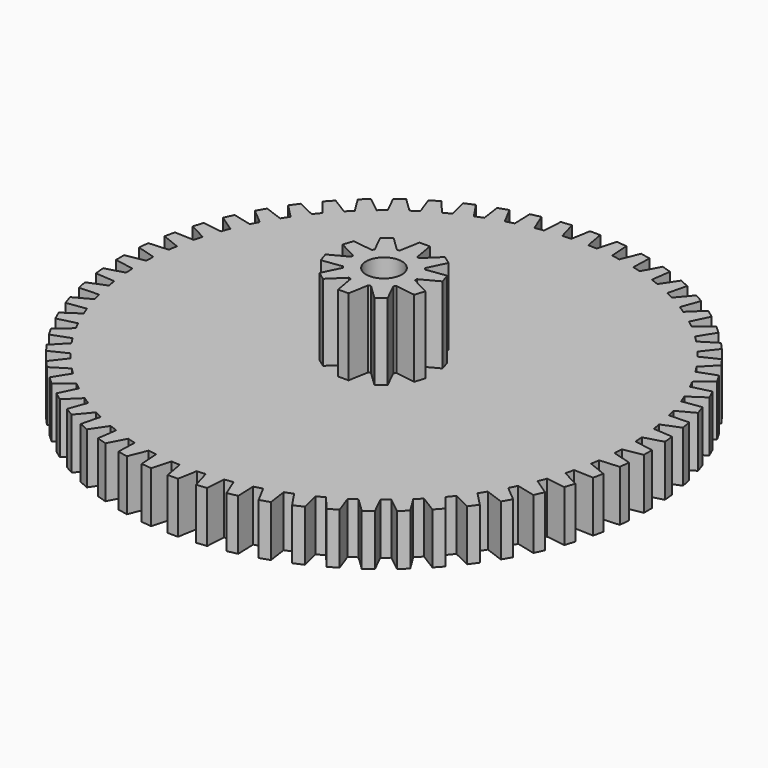
from build123d import *

# Parameters (mm, degrees)
F1_DEPTH = 3
F3_DEPTH = 4.5
F4_R     = 1.05
F5_DEPTH = 7.501


with BuildPart() as f1:
    # F0 (on Top) → F1 (new body)
    with BuildSketch(Plane.XY):
        with BuildLine():
            ThreePointArc((14.339974, -1.002886), (14.3553, -0.752329), (14.366248, -0.501543))
            ThreePointArc((14.366248, -0.501543), (14.372812, -0.25081), (14.375, 0))
            ThreePointArc((14.375, 0), (14.372812, 0.25081), (14.366248, 0.501543))
            ThreePointArc((14.366248, 0.501543), (14.3553, 0.752329), (14.339974, 1.002886))
            ThreePointArc((14.339974, 1.002886), (14.296252, 1.502597), (14.235123, 2.000478))
            ThreePointArc((14.235123, 2.000478), (14.19802, 2.248745), (14.156588, 2.496328))
            ThreePointArc((14.156588, 2.496328), (14.060872, 2.988731), (13.948034, 3.477494))
            ThreePointArc((13.948034, 3.477494), (13.885184, 3.720524), (13.818099, 3.962419))
            ThreePointArc((13.818099, 3.962419), (13.671437, 4.442119), (13.508128, 4.916411))
            ThreePointArc((13.508128, 4.916411), (13.420219, 5.151539), (13.328217, 5.385097))
            ThreePointArc((13.328217, 5.385097), (13.132216, 5.846839), (12.920225, 6.301462))
            ThreePointArc((12.920225, 6.301462), (12.808219, 6.526113), (12.692307, 6.748775))
            ThreePointArc((12.692307, 6.748775), (12.449115, 7.1875), (12.190764, 7.617473))
            ThreePointArc((12.190764, 7.617473), (12.055889, 7.829186), (11.917338, 8.038512))
            ThreePointArc((11.917338, 8.038512), (11.629619, 8.449413), (11.327739, 8.850026))
            ThreePointArc((11.327739, 8.850026), (11.171473, 9.046481), (11.011801, 9.240177))
            ThreePointArc((11.011801, 9.240177), (10.682707, 9.618752), (10.340605, 9.985615))
            ThreePointArc((10.340605, 9.985615), (10.16466, 10.16466), (9.985615, 10.340605))
            ThreePointArc((9.985615, 10.340605), (9.618752, 10.682707), (9.240177, 11.011801))
            ThreePointArc((9.240177, 11.011801), (9.046481, 11.171473), (8.850026, 11.327739))
            ThreePointArc((8.850026, 11.327739), (8.449413, 11.629619), (8.038512, 11.917338))
            ThreePointArc((8.038512, 11.917338), (7.829186, 12.055889), (7.617473, 12.190764))
            ThreePointArc((7.617473, 12.190764), (7.1875, 12.449115), (6.748775, 12.692307))
            ThreePointArc((6.748775, 12.692307), (6.526113, 12.808219), (6.301462, 12.920225))
            ThreePointArc((6.301462, 12.920225), (5.846839, 13.132216), (5.385097, 13.328217))
            ThreePointArc((5.385097, 13.328217), (5.151539, 13.420219), (4.916411, 13.508128))
            ThreePointArc((4.916411, 13.508128), (4.442119, 13.671437), (3.962419, 13.818099))
            ThreePointArc((3.962419, 13.818099), (3.720524, 13.885184), (3.477494, 13.948034))
            ThreePointArc((3.477494, 13.948034), (2.988731, 14.060872), (2.496328, 14.156588))
            ThreePointArc((2.496328, 14.156588), (2.248745, 14.19802), (2.000478, 14.235123))
            ThreePointArc((2.000478, 14.235123), (1.502597, 14.296252), (1.002886, 14.339974))
            ThreePointArc((1.002886, 14.339974), (0.752329, 14.3553), (0.501543, 14.366248))
            ThreePointArc((0.501543, 14.366248), (0, 14.375), (-0.501543, 14.366248))
            ThreePointArc((-0.501543, 14.366248), (-0.752329, 14.3553), (-1.002886, 14.339974))
            ThreePointArc((-1.002886, 14.339974), (-1.502597, 14.296252), (-2.000478, 14.235123))
            ThreePointArc((-2.000478, 14.235123), (-2.248745, 14.19802), (-2.496328, 14.156588))
            ThreePointArc((-2.496328, 14.156588), (-2.988731, 14.060872), (-3.477494, 13.948034))
            ThreePointArc((-3.477494, 13.948034), (-3.720524, 13.885184), (-3.962419, 13.818099))
            ThreePointArc((-3.962419, 13.818099), (-4.442119, 13.671437), (-4.916411, 13.508128))
            ThreePointArc((-4.916411, 13.508128), (-5.151539, 13.420219), (-5.385097, 13.328217))
            ThreePointArc((-5.385097, 13.328217), (-5.846839, 13.132216), (-6.301462, 12.920225))
            ThreePointArc((-6.301462, 12.920225), (-6.526113, 12.808219), (-6.748775, 12.692307))
            ThreePointArc((-6.748775, 12.692307), (-7.1875, 12.449115), (-7.617473, 12.190764))
            ThreePointArc((-7.617473, 12.190764), (-7.829186, 12.055889), (-8.038512, 11.917338))
            ThreePointArc((-8.038512, 11.917338), (-8.449413, 11.629619), (-8.850026, 11.327739))
            ThreePointArc((-8.850026, 11.327739), (-9.046481, 11.171473), (-9.240177, 11.011801))
            ThreePointArc((-9.240177, 11.011801), (-9.618752, 10.682707), (-9.985615, 10.340605))
            ThreePointArc((-9.985615, 10.340605), (-10.16466, 10.16466), (-10.340605, 9.985615))
            ThreePointArc((-10.340605, 9.985615), (-10.682707, 9.618752), (-11.011801, 9.240177))
            ThreePointArc((-11.011801, 9.240177), (-11.171473, 9.046481), (-11.327739, 8.850026))
            ThreePointArc((-11.327739, 8.850026), (-11.629619, 8.449413), (-11.917338, 8.038512))
            ThreePointArc((-11.917338, 8.038512), (-12.055889, 7.829186), (-12.190764, 7.617473))
            ThreePointArc((-12.190764, 7.617473), (-12.449115, 7.1875), (-12.692307, 6.748775))
            ThreePointArc((-12.692307, 6.748775), (-12.808219, 6.526113), (-12.920225, 6.301462))
            ThreePointArc((-12.920225, 6.301462), (-13.132216, 5.846839), (-13.328217, 5.385097))
            ThreePointArc((-13.328217, 5.385097), (-13.420219, 5.151539), (-13.508128, 4.916411))
            ThreePointArc((-13.508128, 4.916411), (-13.671437, 4.442119), (-13.818099, 3.962419))
            ThreePointArc((-13.818099, 3.962419), (-13.885184, 3.720524), (-13.948034, 3.477494))
            ThreePointArc((-13.948034, 3.477494), (-14.060872, 2.988731), (-14.156588, 2.496328))
            ThreePointArc((-14.156588, 2.496328), (-14.19802, 2.248745), (-14.235123, 2.000478))
            ThreePointArc((-14.235123, 2.000478), (-14.296252, 1.502597), (-14.339974, 1.002886))
            ThreePointArc((-14.339974, 1.002886), (-14.3553, 0.752329), (-14.366248, 0.501543))
            ThreePointArc((-14.366248, 0.501543), (-14.375, 0), (-14.366248, -0.501543))
            ThreePointArc((-14.366248, -0.501543), (-14.3553, -0.752329), (-14.339974, -1.002886))
            ThreePointArc((-14.339974, -1.002886), (-14.296252, -1.502597), (-14.235123, -2.000478))
            ThreePointArc((-14.235123, -2.000478), (-14.19802, -2.248745), (-14.156588, -2.496328))
            ThreePointArc((-14.156588, -2.496328), (-14.060872, -2.988731), (-13.948034, -3.477494))
            ThreePointArc((-13.948034, -3.477494), (-13.885184, -3.720524), (-13.818099, -3.962419))
            ThreePointArc((-13.818099, -3.962419), (-13.671437, -4.442119), (-13.508128, -4.916411))
            ThreePointArc((-13.508128, -4.916411), (-13.420219, -5.151539), (-13.328217, -5.385097))
            ThreePointArc((-13.328217, -5.385097), (-13.132216, -5.846839), (-12.920225, -6.301462))
            ThreePointArc((-12.920225, -6.301462), (-12.808219, -6.526113), (-12.692307, -6.748775))
            ThreePointArc((-12.692307, -6.748775), (-12.449115, -7.1875), (-12.190764, -7.617473))
            ThreePointArc((-12.190764, -7.617473), (-12.055889, -7.829186), (-11.917338, -8.038512))
            ThreePointArc((-11.917338, -8.038512), (-11.629619, -8.449413), (-11.327739, -8.850026))
            ThreePointArc((-11.327739, -8.850026), (-11.171473, -9.046481), (-11.011801, -9.240177))
            ThreePointArc((-11.011801, -9.240177), (-10.682707, -9.618752), (-10.340605, -9.985615))
            ThreePointArc((-10.340605, -9.985615), (-10.16466, -10.16466), (-9.985615, -10.340605))
            ThreePointArc((-9.985615, -10.340605), (-9.618752, -10.682707), (-9.240177, -11.011801))
            ThreePointArc((-9.240177, -11.011801), (-9.046481, -11.171473), (-8.850026, -11.327739))
            ThreePointArc((-8.850026, -11.327739), (-8.449413, -11.629619), (-8.038512, -11.917338))
            ThreePointArc((-8.038512, -11.917338), (-7.829186, -12.055889), (-7.617473, -12.190764))
            ThreePointArc((-7.617473, -12.190764), (-7.1875, -12.449115), (-6.748775, -12.692307))
            ThreePointArc((-6.748775, -12.692307), (-6.526113, -12.808219), (-6.301462, -12.920225))
            ThreePointArc((-6.301462, -12.920225), (-5.846839, -13.132216), (-5.385097, -13.328217))
            ThreePointArc((-5.385097, -13.328217), (-5.151539, -13.420219), (-4.916411, -13.508128))
            ThreePointArc((-4.916411, -13.508128), (-4.442119, -13.671437), (-3.962419, -13.818099))
            ThreePointArc((-3.962419, -13.818099), (-3.720524, -13.885184), (-3.477494, -13.948034))
            ThreePointArc((-3.477494, -13.948034), (-2.988731, -14.060872), (-2.496328, -14.156588))
            ThreePointArc((-2.496328, -14.156588), (-2.248745, -14.19802), (-2.000478, -14.235123))
            ThreePointArc((-2.000478, -14.235123), (-1.502597, -14.296252), (-1.002886, -14.339974))
            ThreePointArc((-1.002886, -14.339974), (-0.752329, -14.3553), (-0.501543, -14.366248))
            ThreePointArc((-0.501543, -14.366248), (0, -14.375), (0.501543, -14.366248))
            ThreePointArc((0.501543, -14.366248), (0.752329, -14.3553), (1.002886, -14.339974))
            ThreePointArc((1.002886, -14.339974), (1.502597, -14.296252), (2.000478, -14.235123))
            ThreePointArc((2.000478, -14.235123), (2.248745, -14.19802), (2.496328, -14.156588))
            ThreePointArc((2.496328, -14.156588), (2.988731, -14.060872), (3.477494, -13.948034))
            ThreePointArc((3.477494, -13.948034), (3.720524, -13.885184), (3.962419, -13.818099))
            ThreePointArc((3.962419, -13.818099), (4.442119, -13.671437), (4.916411, -13.508128))
            ThreePointArc((4.916411, -13.508128), (5.151539, -13.420219), (5.385097, -13.328217))
            ThreePointArc((5.385097, -13.328217), (5.846839, -13.132216), (6.301462, -12.920225))
            ThreePointArc((6.301462, -12.920225), (6.526113, -12.808219), (6.748775, -12.692307))
            ThreePointArc((6.748775, -12.692307), (7.1875, -12.449115), (7.617473, -12.190764))
            ThreePointArc((7.617473, -12.190764), (7.829186, -12.055889), (8.038512, -11.917338))
            ThreePointArc((8.038512, -11.917338), (8.449413, -11.629619), (8.850026, -11.327739))
            ThreePointArc((8.850026, -11.327739), (9.046481, -11.171473), (9.240177, -11.011801))
            ThreePointArc((9.240177, -11.011801), (9.618752, -10.682707), (9.985615, -10.340605))
            ThreePointArc((9.985615, -10.340605), (10.16466, -10.16466), (10.340605, -9.985615))
            ThreePointArc((10.340605, -9.985615), (10.682707, -9.618752), (11.011801, -9.240177))
            ThreePointArc((11.011801, -9.240177), (11.171473, -9.046481), (11.327739, -8.850026))
            ThreePointArc((11.327739, -8.850026), (11.629619, -8.449413), (11.917338, -8.038512))
            ThreePointArc((11.917338, -8.038512), (12.055889, -7.829186), (12.190764, -7.617473))
            ThreePointArc((12.190764, -7.617473), (12.449115, -7.1875), (12.692307, -6.748775))
            ThreePointArc((12.692307, -6.748775), (12.808219, -6.526113), (12.920225, -6.301462))
            ThreePointArc((12.920225, -6.301462), (13.132216, -5.846839), (13.328217, -5.385097))
            ThreePointArc((13.328217, -5.385097), (13.420219, -5.151539), (13.508128, -4.916411))
            ThreePointArc((13.508128, -4.916411), (13.671437, -4.442119), (13.818099, -3.962419))
            ThreePointArc((13.818099, -3.962419), (13.885184, -3.720524), (13.948034, -3.477494))
            ThreePointArc((13.948034, -3.477494), (14.060872, -2.988731), (14.156588, -2.496328))
            ThreePointArc((14.156588, -2.496328), (14.19802, -2.248745), (14.235123, -2.000478))
            ThreePointArc((14.235123, -2.000478), (14.296252, -1.502597), (14.339974, -1.002886))
        make_face()
        with BuildLine():
            ThreePointArc((14.375, 0), (14.372812, -0.25081), (14.366248, -0.501543))
            Line((14.366248, -0.501543), (15.497055, -0.302151))
            Line((15.497055, -0.302151), (15.497055, 0.302151))
            Line((15.497055, 0.302151), (14.366248, 0.501543))
            ThreePointArc((14.366248, 0.501543), (14.372812, 0.25081), (14.375, 0))
        make_face()
        with BuildLine():
            Line((15.443744, -1.319387), (14.339974, -1.002886))
            ThreePointArc((14.339974, -1.002886), (14.296252, -1.502597), (14.235123, -2.000478))
            Line((14.235123, -2.000478), (15.380577, -1.92038))
            Line((15.380577, -1.92038), (15.443744, -1.319387))
        make_face()
        with BuildLine():
            ThreePointArc((14.235123, 2.000478), (14.296252, 1.502597), (14.339974, 1.002886))
            Line((14.339974, 1.002886), (15.443744, 1.319387))
            Line((15.443744, 1.319387), (15.380577, 1.92038))
            Line((15.380577, 1.92038), (14.235123, 2.000478))
        make_face()
        with BuildLine():
            Line((15.221228, -2.92647), (14.156588, -2.496328))
            ThreePointArc((14.156588, -2.496328), (14.060872, -2.988731), (13.948034, -3.477494))
            Line((13.948034, -3.477494), (15.095586, -3.517568))
            Line((15.095586, -3.517568), (15.221228, -2.92647))
        make_face()
        with BuildLine():
            ThreePointArc((13.948034, 3.477494), (14.060872, 2.988731), (14.156588, 2.496328))
            Line((14.156588, 2.496328), (15.221228, 2.92647))
            Line((15.221228, 2.92647), (15.095586, 3.517568))
            Line((15.095586, 3.517568), (13.948034, 3.477494))
        make_face()
        with BuildLine():
            Line((14.831945, -4.50149), (13.818099, -3.962419))
            ThreePointArc((13.818099, -3.962419), (13.671437, -4.442119), (13.508128, -4.916411))
            Line((13.508128, -4.916411), (14.645205, -5.076216))
            Line((14.645205, -5.076216), (14.831945, -4.50149))
        make_face()
        with BuildLine():
            ThreePointArc((13.508128, 4.916411), (13.671437, 4.442119), (13.818099, 3.962419))
            Line((13.818099, 3.962419), (14.831945, 4.50149))
            Line((14.831945, 4.50149), (14.645205, 5.076216))
            Line((14.645205, 5.076216), (13.508128, 4.916411))
        make_face()
        with BuildLine():
            Line((14.28016, -6.027191), (13.328217, -5.385097))
            ThreePointArc((13.328217, -5.385097), (13.132216, -5.846839), (12.920225, -6.301462))
            Line((12.920225, -6.301462), (14.034368, -6.579249))
            Line((14.034368, -6.579249), (14.28016, -6.027191))
        make_face()
        with BuildLine():
            ThreePointArc((12.920225, 6.301462), (13.132216, 5.846839), (13.328217, 5.385097))
            Line((13.328217, 5.385097), (14.28016, 6.027191))
            Line((14.28016, 6.027191), (14.034368, 6.579249))
            Line((14.034368, 6.579249), (12.920225, 6.301462))
        make_face()
        with BuildLine():
            Line((13.571919, -7.486856), (12.692307, -6.748775))
            ThreePointArc((12.692307, -6.748775), (12.449115, -7.1875), (12.190764, -7.617473))
            Line((12.190764, -7.617473), (13.269767, -8.010198))
            Line((13.269767, -8.010198), (13.571919, -7.486856))
        make_face()
        with BuildLine():
            ThreePointArc((12.190764, 7.617473), (12.449115, 7.1875), (12.692307, 6.748775))
            Line((12.692307, 6.748775), (13.571919, 7.486856))
            Line((13.571919, 7.486856), (13.269767, 8.010198))
            Line((13.269767, 8.010198), (12.190764, 7.617473))
        make_face()
        with BuildLine():
            Line((12.714981, -8.864495), (11.917338, -8.038512))
            ThreePointArc((11.917338, -8.038512), (11.629619, -8.449413), (11.327739, -8.850026))
            Line((11.327739, -8.850026), (12.35978, -9.353386))
            Line((12.35978, -9.353386), (12.714981, -8.864495))
        make_face()
        with BuildLine():
            ThreePointArc((11.327739, 8.850026), (11.629619, 8.449413), (11.917338, 8.038512))
            Line((11.917338, 8.038512), (12.714981, 8.864495))
            Line((12.714981, 8.864495), (12.35978, 9.353386))
            Line((12.35978, 9.353386), (11.327739, 8.850026))
        make_face()
        with BuildLine():
            Line((11.718735, -10.145011), (11.011801, -9.240177))
            ThreePointArc((11.011801, -9.240177), (10.682707, -9.618752), (10.340605, -9.985615))
            Line((10.340605, -9.985615), (11.314377, -10.594096))
            Line((11.314377, -10.594096), (11.718735, -10.145011))
        make_face()
        with BuildLine():
            ThreePointArc((10.340605, 9.985615), (10.682707, 9.618752), (11.011801, 9.240177))
            Line((11.011801, 9.240177), (11.718735, 10.145011))
            Line((11.718735, 10.145011), (11.314377, 10.594096))
            Line((11.314377, 10.594096), (10.340605, 9.985615))
        make_face()
        with BuildLine():
            Line((10.594096, -11.314377), (9.985615, -10.340605))
            ThreePointArc((9.985615, -10.340605), (9.618752, -10.682707), (9.240177, -11.011801))
            Line((9.240177, -11.011801), (10.145011, -11.718735))
            Line((10.145011, -11.718735), (10.594096, -11.314377))
        make_face()
        with BuildLine():
            ThreePointArc((9.240177, 11.011801), (9.618752, 10.682707), (9.985615, 10.340605))
            Line((9.985615, 10.340605), (10.594096, 11.314377))
            Line((10.594096, 11.314377), (10.145011, 11.718735))
            Line((10.145011, 11.718735), (9.240177, 11.011801))
        make_face()
        with BuildLine():
            Line((9.353386, -12.35978), (8.850026, -11.327739))
            ThreePointArc((8.850026, -11.327739), (8.449413, -11.629619), (8.038512, -11.917338))
            Line((8.038512, -11.917338), (8.864495, -12.714981))
            Line((8.864495, -12.714981), (9.353386, -12.35978))
        make_face()
        with BuildLine():
            ThreePointArc((8.038512, 11.917338), (8.449413, 11.629619), (8.850026, 11.327739))
            Line((8.850026, 11.327739), (9.353386, 12.35978))
            Line((9.353386, 12.35978), (8.864495, 12.714981))
            Line((8.864495, 12.714981), (8.038512, 11.917338))
        make_face()
        with BuildLine():
            Line((8.010198, -13.269767), (7.617473, -12.190764))
            ThreePointArc((7.617473, -12.190764), (7.1875, -12.449115), (6.748775, -12.692307))
            Line((6.748775, -12.692307), (7.486856, -13.571919))
            Line((7.486856, -13.571919), (8.010198, -13.269767))
        make_face()
        with BuildLine():
            ThreePointArc((6.748775, 12.692307), (7.1875, 12.449115), (7.617473, 12.190764))
            Line((7.617473, 12.190764), (8.010198, 13.269767))
            Line((8.010198, 13.269767), (7.486856, 13.571919))
            Line((7.486856, 13.571919), (6.748775, 12.692307))
        make_face()
        with BuildLine():
            Line((6.579249, -14.034368), (6.301462, -12.920225))
            ThreePointArc((6.301462, -12.920225), (5.846839, -13.132216), (5.385097, -13.328217))
            Line((5.385097, -13.328217), (6.027191, -14.28016))
            Line((6.027191, -14.28016), (6.579249, -14.034368))
        make_face()
        with BuildLine():
            ThreePointArc((5.385097, 13.328217), (5.846839, 13.132216), (6.301462, 12.920225))
            Line((6.301462, 12.920225), (6.579249, 14.034368))
            Line((6.579249, 14.034368), (6.027191, 14.28016))
            Line((6.027191, 14.28016), (5.385097, 13.328217))
        make_face()
        with BuildLine():
            Line((5.076216, -14.645205), (4.916411, -13.508128))
            ThreePointArc((4.916411, -13.508128), (4.442119, -13.671437), (3.962419, -13.818099))
            Line((3.962419, -13.818099), (4.50149, -14.831945))
            Line((4.50149, -14.831945), (5.076216, -14.645205))
        make_face()
        with BuildLine():
            ThreePointArc((3.962419, 13.818099), (4.442119, 13.671437), (4.916411, 13.508128))
            Line((4.916411, 13.508128), (5.076216, 14.645205))
            Line((5.076216, 14.645205), (4.50149, 14.831945))
            Line((4.50149, 14.831945), (3.962419, 13.818099))
        make_face()
        with BuildLine():
            Line((3.517568, -15.095586), (3.477494, -13.948034))
            ThreePointArc((3.477494, -13.948034), (2.988731, -14.060872), (2.496328, -14.156588))
            Line((2.496328, -14.156588), (2.92647, -15.221228))
            Line((2.92647, -15.221228), (3.517568, -15.095586))
        make_face()
        with BuildLine():
            ThreePointArc((2.496328, 14.156588), (2.988731, 14.060872), (3.477494, 13.948034))
            Line((3.477494, 13.948034), (3.517568, 15.095586))
            Line((3.517568, 15.095586), (2.92647, 15.221228))
            Line((2.92647, 15.221228), (2.496328, 14.156588))
        make_face()
        with BuildLine():
            Line((1.92038, -15.380577), (2.000478, -14.235123))
            ThreePointArc((2.000478, -14.235123), (1.502597, -14.296252), (1.002886, -14.339974))
            Line((1.002886, -14.339974), (1.319387, -15.443744))
            Line((1.319387, -15.443744), (1.92038, -15.380577))
        make_face()
        with BuildLine():
            ThreePointArc((1.002886, 14.339974), (1.502597, 14.296252), (2.000478, 14.235123))
            Line((2.000478, 14.235123), (1.92038, 15.380577))
            Line((1.92038, 15.380577), (1.319387, 15.443744))
            Line((1.319387, 15.443744), (1.002886, 14.339974))
        make_face()
        with BuildLine():
            Line((0.302151, -15.497055), (0.501543, -14.366248))
            ThreePointArc((0.501543, -14.366248), (0, -14.375), (-0.501543, -14.366248))
            Line((-0.501543, -14.366248), (-0.302151, -15.497055))
            Line((-0.302151, -15.497055), (0.302151, -15.497055))
        make_face()
        with BuildLine():
            ThreePointArc((-0.501543, 14.366248), (0, 14.375), (0.501543, 14.366248))
            Line((0.501543, 14.366248), (0.302151, 15.497055))
            Line((0.302151, 15.497055), (-0.302151, 15.497055))
            Line((-0.302151, 15.497055), (-0.501543, 14.366248))
        make_face()
        with BuildLine():
            Line((-1.319387, -15.443744), (-1.002886, -14.339974))
            ThreePointArc((-1.002886, -14.339974), (-1.502597, -14.296252), (-2.000478, -14.235123))
            Line((-2.000478, -14.235123), (-1.92038, -15.380577))
            Line((-1.92038, -15.380577), (-1.319387, -15.443744))
        make_face()
        with BuildLine():
            ThreePointArc((-2.000478, 14.235123), (-1.502597, 14.296252), (-1.002886, 14.339974))
            Line((-1.002886, 14.339974), (-1.319387, 15.443744))
            Line((-1.319387, 15.443744), (-1.92038, 15.380577))
            Line((-1.92038, 15.380577), (-2.000478, 14.235123))
        make_face()
        with BuildLine():
            Line((-2.92647, -15.221228), (-2.496328, -14.156588))
            ThreePointArc((-2.496328, -14.156588), (-2.988731, -14.060872), (-3.477494, -13.948034))
            Line((-3.477494, -13.948034), (-3.517568, -15.095586))
            Line((-3.517568, -15.095586), (-2.92647, -15.221228))
        make_face()
        with BuildLine():
            ThreePointArc((-3.477494, 13.948034), (-2.988731, 14.060872), (-2.496328, 14.156588))
            Line((-2.496328, 14.156588), (-2.92647, 15.221228))
            Line((-2.92647, 15.221228), (-3.517568, 15.095586))
            Line((-3.517568, 15.095586), (-3.477494, 13.948034))
        make_face()
        with BuildLine():
            Line((-4.50149, -14.831945), (-3.962419, -13.818099))
            ThreePointArc((-3.962419, -13.818099), (-4.442119, -13.671437), (-4.916411, -13.508128))
            Line((-4.916411, -13.508128), (-5.076216, -14.645205))
            Line((-5.076216, -14.645205), (-4.50149, -14.831945))
        make_face()
        with BuildLine():
            ThreePointArc((-4.916411, 13.508128), (-4.442119, 13.671437), (-3.962419, 13.818099))
            Line((-3.962419, 13.818099), (-4.50149, 14.831945))
            Line((-4.50149, 14.831945), (-5.076216, 14.645205))
            Line((-5.076216, 14.645205), (-4.916411, 13.508128))
        make_face()
        with BuildLine():
            Line((-6.027191, -14.28016), (-5.385097, -13.328217))
            ThreePointArc((-5.385097, -13.328217), (-5.846839, -13.132216), (-6.301462, -12.920225))
            Line((-6.301462, -12.920225), (-6.579249, -14.034368))
            Line((-6.579249, -14.034368), (-6.027191, -14.28016))
        make_face()
        with BuildLine():
            ThreePointArc((-6.301462, 12.920225), (-5.846839, 13.132216), (-5.385097, 13.328217))
            Line((-5.385097, 13.328217), (-6.027191, 14.28016))
            Line((-6.027191, 14.28016), (-6.579249, 14.034368))
            Line((-6.579249, 14.034368), (-6.301462, 12.920225))
        make_face()
        with BuildLine():
            Line((-7.486856, -13.571919), (-6.748775, -12.692307))
            ThreePointArc((-6.748775, -12.692307), (-7.1875, -12.449115), (-7.617473, -12.190764))
            Line((-7.617473, -12.190764), (-8.010198, -13.269767))
            Line((-8.010198, -13.269767), (-7.486856, -13.571919))
        make_face()
        with BuildLine():
            ThreePointArc((-7.617473, 12.190764), (-7.1875, 12.449115), (-6.748775, 12.692307))
            Line((-6.748775, 12.692307), (-7.486856, 13.571919))
            Line((-7.486856, 13.571919), (-8.010198, 13.269767))
            Line((-8.010198, 13.269767), (-7.617473, 12.190764))
        make_face()
        with BuildLine():
            Line((-8.864495, -12.714981), (-8.038512, -11.917338))
            ThreePointArc((-8.038512, -11.917338), (-8.449413, -11.629619), (-8.850026, -11.327739))
            Line((-8.850026, -11.327739), (-9.353386, -12.35978))
            Line((-9.353386, -12.35978), (-8.864495, -12.714981))
        make_face()
        with BuildLine():
            ThreePointArc((-8.850026, 11.327739), (-8.449413, 11.629619), (-8.038512, 11.917338))
            Line((-8.038512, 11.917338), (-8.864495, 12.714981))
            Line((-8.864495, 12.714981), (-9.353386, 12.35978))
            Line((-9.353386, 12.35978), (-8.850026, 11.327739))
        make_face()
        with BuildLine():
            Line((-10.145011, -11.718735), (-9.240177, -11.011801))
            ThreePointArc((-9.240177, -11.011801), (-9.618752, -10.682707), (-9.985615, -10.340605))
            Line((-9.985615, -10.340605), (-10.594096, -11.314377))
            Line((-10.594096, -11.314377), (-10.145011, -11.718735))
        make_face()
        with BuildLine():
            ThreePointArc((-9.985615, 10.340605), (-9.618752, 10.682707), (-9.240177, 11.011801))
            Line((-9.240177, 11.011801), (-10.145011, 11.718735))
            Line((-10.145011, 11.718735), (-10.594096, 11.314377))
            Line((-10.594096, 11.314377), (-9.985615, 10.340605))
        make_face()
        with BuildLine():
            Line((-11.314377, -10.594096), (-10.340605, -9.985615))
            ThreePointArc((-10.340605, -9.985615), (-10.682707, -9.618752), (-11.011801, -9.240177))
            Line((-11.011801, -9.240177), (-11.718735, -10.145011))
            Line((-11.718735, -10.145011), (-11.314377, -10.594096))
        make_face()
        with BuildLine():
            ThreePointArc((-11.011801, 9.240177), (-10.682707, 9.618752), (-10.340605, 9.985615))
            Line((-10.340605, 9.985615), (-11.314377, 10.594096))
            Line((-11.314377, 10.594096), (-11.718735, 10.145011))
            Line((-11.718735, 10.145011), (-11.011801, 9.240177))
        make_face()
        with BuildLine():
            Line((-12.35978, -9.353386), (-11.327739, -8.850026))
            ThreePointArc((-11.327739, -8.850026), (-11.629619, -8.449413), (-11.917338, -8.038512))
            Line((-11.917338, -8.038512), (-12.714981, -8.864495))
            Line((-12.714981, -8.864495), (-12.35978, -9.353386))
        make_face()
        with BuildLine():
            ThreePointArc((-11.917338, 8.038512), (-11.629619, 8.449413), (-11.327739, 8.850026))
            Line((-11.327739, 8.850026), (-12.35978, 9.353386))
            Line((-12.35978, 9.353386), (-12.714981, 8.864495))
            Line((-12.714981, 8.864495), (-11.917338, 8.038512))
        make_face()
        with BuildLine():
            Line((-13.269767, -8.010198), (-12.190764, -7.617473))
            ThreePointArc((-12.190764, -7.617473), (-12.449115, -7.1875), (-12.692307, -6.748775))
            Line((-12.692307, -6.748775), (-13.571919, -7.486856))
            Line((-13.571919, -7.486856), (-13.269767, -8.010198))
        make_face()
        with BuildLine():
            ThreePointArc((-12.692307, 6.748775), (-12.449115, 7.1875), (-12.190764, 7.617473))
            Line((-12.190764, 7.617473), (-13.269767, 8.010198))
            Line((-13.269767, 8.010198), (-13.571919, 7.486856))
            Line((-13.571919, 7.486856), (-12.692307, 6.748775))
        make_face()
        with BuildLine():
            Line((-14.034368, -6.579249), (-12.920225, -6.301462))
            ThreePointArc((-12.920225, -6.301462), (-13.132216, -5.846839), (-13.328217, -5.385097))
            Line((-13.328217, -5.385097), (-14.28016, -6.027191))
            Line((-14.28016, -6.027191), (-14.034368, -6.579249))
        make_face()
        with BuildLine():
            ThreePointArc((-13.328217, 5.385097), (-13.132216, 5.846839), (-12.920225, 6.301462))
            Line((-12.920225, 6.301462), (-14.034368, 6.579249))
            Line((-14.034368, 6.579249), (-14.28016, 6.027191))
            Line((-14.28016, 6.027191), (-13.328217, 5.385097))
        make_face()
        with BuildLine():
            Line((-14.645205, -5.076216), (-13.508128, -4.916411))
            ThreePointArc((-13.508128, -4.916411), (-13.671437, -4.442119), (-13.818099, -3.962419))
            Line((-13.818099, -3.962419), (-14.831945, -4.50149))
            Line((-14.831945, -4.50149), (-14.645205, -5.076216))
        make_face()
        with BuildLine():
            ThreePointArc((-13.818099, 3.962419), (-13.671437, 4.442119), (-13.508128, 4.916411))
            Line((-13.508128, 4.916411), (-14.645205, 5.076216))
            Line((-14.645205, 5.076216), (-14.831945, 4.50149))
            Line((-14.831945, 4.50149), (-13.818099, 3.962419))
        make_face()
        with BuildLine():
            Line((-15.095586, -3.517568), (-13.948034, -3.477494))
            ThreePointArc((-13.948034, -3.477494), (-14.060872, -2.988731), (-14.156588, -2.496328))
            Line((-14.156588, -2.496328), (-15.221228, -2.92647))
            Line((-15.221228, -2.92647), (-15.095586, -3.517568))
        make_face()
        with BuildLine():
            ThreePointArc((-14.156588, 2.496328), (-14.060872, 2.988731), (-13.948034, 3.477494))
            Line((-13.948034, 3.477494), (-15.095586, 3.517568))
            Line((-15.095586, 3.517568), (-15.221228, 2.92647))
            Line((-15.221228, 2.92647), (-14.156588, 2.496328))
        make_face()
        with BuildLine():
            Line((-15.380577, -1.92038), (-14.235123, -2.000478))
            ThreePointArc((-14.235123, -2.000478), (-14.296252, -1.502597), (-14.339974, -1.002886))
            Line((-14.339974, -1.002886), (-15.443744, -1.319387))
            Line((-15.443744, -1.319387), (-15.380577, -1.92038))
        make_face()
        with BuildLine():
            ThreePointArc((-14.339974, 1.002886), (-14.296252, 1.502597), (-14.235123, 2.000478))
            Line((-14.235123, 2.000478), (-15.380577, 1.92038))
            Line((-15.380577, 1.92038), (-15.443744, 1.319387))
            Line((-15.443744, 1.319387), (-14.339974, 1.002886))
        make_face()
        with BuildLine():
            Line((-15.497055, -0.302151), (-14.366248, -0.501543))
            ThreePointArc((-14.366248, -0.501543), (-14.375, 0), (-14.366248, 0.501543))
            Line((-14.366248, 0.501543), (-15.497055, 0.302151))
            Line((-15.497055, 0.302151), (-15.497055, -0.302151))
        make_face()
    extrude(amount=F1_DEPTH)

    # F2 (on face) → F3 (join)
    with BuildSketch(Plane.XY.offset(3)):
        with BuildLine():
            ThreePointArc((1.873699, -0.069828), (1.874675, -0.03492), (1.875, 0))
            ThreePointArc((1.875, 0), (1.874675, 0.03492), (1.873699, 0.069828))
            ThreePointArc((1.873699, 0.069828), (1.783231, 0.579407), (1.556898, 1.044841))
            ThreePointArc((1.556898, 1.044841), (1.516907, 1.102097), (1.474811, 1.157825))
            ThreePointArc((1.474811, 1.157825), (1.102097, 1.516907), (0.645415, 1.760416))
            ThreePointArc((0.645415, 1.760416), (0.579407, 1.783231), (0.512595, 1.803572))
            ThreePointArc((0.512595, 1.803572), (0, 1.875), (-0.512595, 1.803572))
            ThreePointArc((-0.512595, 1.803572), (-0.579407, 1.783231), (-0.645415, 1.760416))
            ThreePointArc((-0.645415, 1.760416), (-1.102097, 1.516907), (-1.474811, 1.157825))
            ThreePointArc((-1.474811, 1.157825), (-1.516907, 1.102097), (-1.556898, 1.044841))
            ThreePointArc((-1.556898, 1.044841), (-1.783231, 0.579407), (-1.873699, 0.069828))
            ThreePointArc((-1.873699, 0.069828), (-1.875, 0), (-1.873699, -0.069828))
            ThreePointArc((-1.873699, -0.069828), (-1.783231, -0.579407), (-1.556898, -1.044841))
            ThreePointArc((-1.556898, -1.044841), (-1.516907, -1.102097), (-1.474811, -1.157825))
            ThreePointArc((-1.474811, -1.157825), (-1.102097, -1.516907), (-0.645415, -1.760416))
            ThreePointArc((-0.645415, -1.760416), (-0.579407, -1.783231), (-0.512595, -1.803572))
            ThreePointArc((-0.512595, -1.803572), (0, -1.875), (0.512595, -1.803572))
            ThreePointArc((0.512595, -1.803572), (0.579407, -1.783231), (0.645415, -1.760416))
            ThreePointArc((0.645415, -1.760416), (1.102097, -1.516907), (1.474811, -1.157825))
            ThreePointArc((1.474811, -1.157825), (1.516907, -1.102097), (1.556898, -1.044841))
            ThreePointArc((1.556898, -1.044841), (1.783231, -0.579407), (1.873699, -0.069828))
        make_face()
        with BuildLine():
            ThreePointArc((1.556898, 1.044841), (1.783231, 0.579407), (1.873699, 0.069828))
            Line((1.873699, 0.069828), (2.932501, 0.632803))
            Line((2.932501, 0.632803), (2.744395, 1.211733))
            Line((2.744395, 1.211733), (1.556898, 1.044841))
        make_face()
        with BuildLine():
            Line((2.932501, -0.632803), (1.873699, -0.069828))
            ThreePointArc((1.873699, -0.069828), (1.783231, -0.579407), (1.556898, -1.044841))
            Line((1.556898, -1.044841), (2.744395, -1.211733))
            Line((2.744395, -1.211733), (2.932501, -0.632803))
        make_face()
        with BuildLine():
            ThreePointArc((0.645415, 1.760416), (1.102097, 1.516907), (1.474811, 1.157825))
            Line((1.474811, 1.157825), (2.000491, 2.235629))
            Line((2.000491, 2.235629), (1.508024, 2.593427))
            Line((1.508024, 2.593427), (0.645415, 1.760416))
        make_face()
        with BuildLine():
            Line((2.000491, -2.235629), (1.474811, -1.157825))
            ThreePointArc((1.474811, -1.157825), (1.102097, -1.516907), (0.645415, -1.760416))
            Line((0.645415, -1.760416), (1.508024, -2.593427))
            Line((1.508024, -2.593427), (2.000491, -2.235629))
        make_face()
        with BuildLine():
            ThreePointArc((-0.512595, 1.803572), (0, 1.875), (0.512595, 1.803572))
            Line((0.512595, 1.803572), (0.304362, 2.984521))
            Line((0.304362, 2.984521), (-0.304362, 2.984521))
            Line((-0.304362, 2.984521), (-0.512595, 1.803572))
        make_face()
        with BuildLine():
            Line((0.304362, -2.984521), (0.512595, -1.803572))
            ThreePointArc((0.512595, -1.803572), (0, -1.875), (-0.512595, -1.803572))
            Line((-0.512595, -1.803572), (-0.304362, -2.984521))
            Line((-0.304362, -2.984521), (0.304362, -2.984521))
        make_face()
        with BuildLine():
            ThreePointArc((-1.474811, 1.157825), (-1.102097, 1.516907), (-0.645415, 1.760416))
            Line((-0.645415, 1.760416), (-1.508024, 2.593427))
            Line((-1.508024, 2.593427), (-2.000491, 2.235629))
            Line((-2.000491, 2.235629), (-1.474811, 1.157825))
        make_face()
        with BuildLine():
            Line((-1.508024, -2.593427), (-0.645415, -1.760416))
            ThreePointArc((-0.645415, -1.760416), (-1.102097, -1.516907), (-1.474811, -1.157825))
            Line((-1.474811, -1.157825), (-2.000491, -2.235629))
            Line((-2.000491, -2.235629), (-1.508024, -2.593427))
        make_face()
        with BuildLine():
            ThreePointArc((-1.873699, 0.069828), (-1.783231, 0.579407), (-1.556898, 1.044841))
            Line((-1.556898, 1.044841), (-2.744395, 1.211733))
            Line((-2.744395, 1.211733), (-2.932501, 0.632803))
            Line((-2.932501, 0.632803), (-1.873699, 0.069828))
        make_face()
        with BuildLine():
            Line((-2.744395, -1.211733), (-1.556898, -1.044841))
            ThreePointArc((-1.556898, -1.044841), (-1.783231, -0.579407), (-1.873699, -0.069828))
            Line((-1.873699, -0.069828), (-2.932501, -0.632803))
            Line((-2.932501, -0.632803), (-2.744395, -1.211733))
        make_face()
    extrude(amount=F3_DEPTH)

    # F4 (on face) → F5 (cut, through all)
    with BuildSketch(Plane.XY.offset(7.5)):
        Circle(F4_R)
    extrude(amount=-F5_DEPTH, mode=Mode.SUBTRACT)


solid = f1.part
